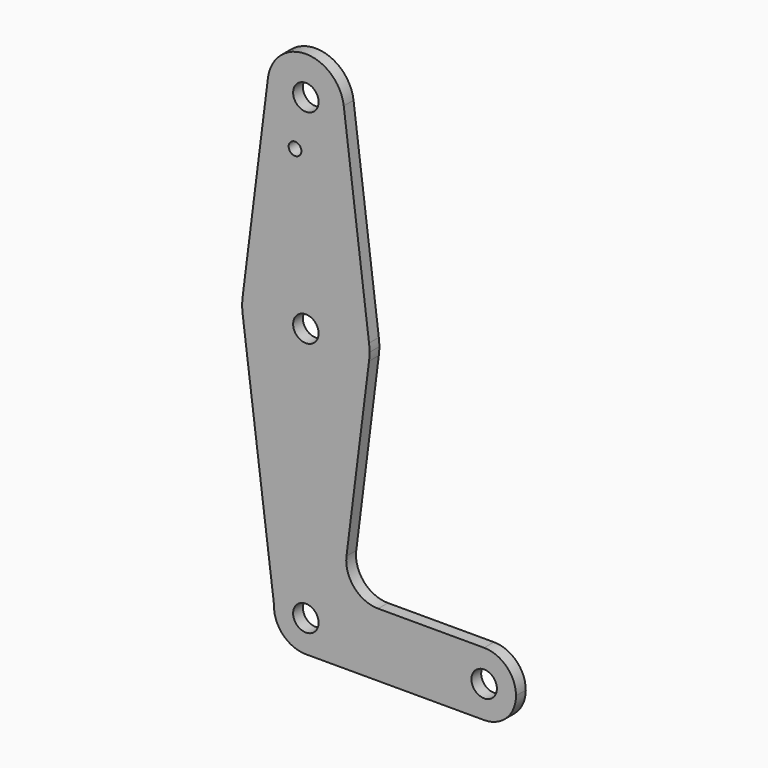
from build123d import *

# Parameters (mm, degrees)
F0_R     = 3.175
F0_R_2   = 1.5875
F1_DEPTH = 3.048


with BuildPart() as f1:
    # F0 (on Front) → F1 (new body)
    with BuildSketch(Plane.XZ):
        with BuildLine():
            ThreePointArc((-54.753775, 63.406763), (-45.899965, 52.709833), (-35.778482, 62.216138))
            ThreePointArc((-35.778482, 62.216138), (-35.797177, 62.812621), (-35.853189, 63.406763))
            ThreePointArc((-35.853189, 63.406763), (-45.303482, 71.741138), (-54.753775, 63.406763))
        make_face()
        with Locations((-45.303482, 62.216138)):
            Circle(F0_R, mode=Mode.SUBTRACT)
        with BuildLine():
            ThreePointArc((-35.853189, 63.406763), (-35.797177, 62.812621), (-35.778482, 62.216138))
            ThreePointArc((-35.778482, 62.216138), (-45.899965, 52.709833), (-54.753775, 63.406763))
            Line((-54.753775, 63.406763), (-61.05397, 13.400513))
            ThreePointArc((-61.05397, 13.400513), (-45.303482, 27.291138), (-29.552994, 13.400513))
            Line((-29.552994, 13.400513), (-35.853189, 63.406763))
        make_face()
        with Locations((-48.005998, 50.038002)):
            Circle(F0_R_2, mode=Mode.SUBTRACT)
        with BuildLine():
            ThreePointArc((-29.428482, 11.416138), (-29.459641, 12.410276), (-29.552994, 13.400513))
            ThreePointArc((-29.552994, 13.400513), (-45.303482, 27.291138), (-61.05397, 13.400513))
            ThreePointArc((-61.05397, 13.400513), (-61.178477, 11.402956), (-61.050653, 9.405608))
            ThreePointArc((-61.050653, 9.405608), (-45.2903, -4.458857), (-29.552994, 9.431763))
            ThreePointArc((-29.552994, 9.431763), (-29.459641, 10.421999), (-29.428482, 11.416138))
        make_face()
        with Locations((-45.303482, 11.416138)):
            Circle(F0_R, mode=Mode.SUBTRACT)
        with BuildLine():
            ThreePointArc((-29.552994, 9.431763), (-45.2903, -4.458857), (-61.050653, 9.405608))
            Line((-61.050653, 9.405608), (-53.235967, -51.801739))
            ThreePointArc((-53.235967, -51.801739), (-45.162398, -44.147616), (-37.365982, -52.083862))
            ThreePointArc((-37.365982, -52.083862), (-39.690822, -57.696522), (-45.303482, -60.021362))
            Line((-45.303482, -60.021362), (-0.853482, -60.021362))
            ThreePointArc((-0.853482, -60.021362), (-8.790982, -52.083862), (-0.853482, -44.146362))
            Line((-0.853482, -44.146362), (-27.288524, -44.146362))
            ThreePointArc((-27.288524, -44.146362), (-33.251174, -41.454725), (-35.176368, -35.202387))
            Line((-35.176368, -35.202387), (-29.552994, 9.431763))
        make_face()
        with BuildLine():
            ThreePointArc((-37.365982, -52.083862), (-45.162398, -44.147616), (-53.235967, -51.801739))
            ThreePointArc((-53.235967, -51.801739), (-51.015017, -57.595874), (-45.303482, -60.021362))
            ThreePointArc((-45.303482, -60.021362), (-39.690822, -57.696522), (-37.365982, -52.083862))
        make_face()
        with Locations((-45.303482, -52.083862)):
            Circle(F0_R, mode=Mode.SUBTRACT)
        with BuildLine():
            ThreePointArc((-0.853482, -44.146362), (-8.790982, -52.083862), (-0.853482, -60.021362))
            ThreePointArc((-0.853482, -60.021362), (4.759178, -57.696522), (7.084018, -52.083862))
            ThreePointArc((7.084018, -52.083862), (4.759178, -46.471202), (-0.853482, -44.146362))
        make_face()
        with Locations((-0.853482, -52.083862)):
            Circle(F0_R, mode=Mode.SUBTRACT)
    extrude(amount=F1_DEPTH)


solid = f1.part
